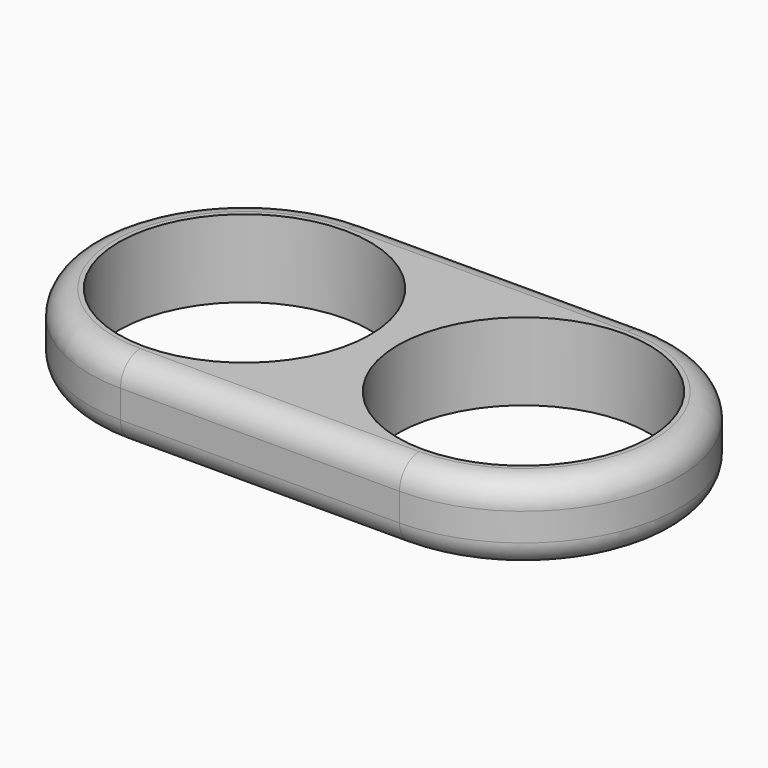
from build123d import *

# Parameters (mm, degrees)
F0_R     = 8.1
F1_DEPTH = 5
F2_R     = 1.6


with BuildPart() as f1:
    # F0 (on Top) → F1 (new body)
    with BuildSketch(Plane.XY):
        with BuildLine():
            Line((9, 10), (-9, 10))
            ThreePointArc((-9, 10), (-19, 0), (-9, -10))
            Line((-9, -10), (9, -10))
            ThreePointArc((9, -10), (19, 0), (9, 10))
        make_face()
        with Locations((-9, 0)):
            Circle(F0_R, mode=Mode.SUBTRACT)
        with Locations((9, 0)):
            Circle(F0_R, mode=Mode.SUBTRACT)
    extrude(amount=F1_DEPTH)

    # F2
    f2_edges = [f1.edges().sort_by_distance(p)[0] for p in [
        (-9, -10, 2.5),
        (9, -10, 2.5),
        (0, -10, 0),
        (0, -10, 5),
        (9, 10, 2.5),
        (19, 0, 0),
        (19, 0, 5),
    ]]
    fillet(f2_edges, radius=F2_R)


solid = f1.part
